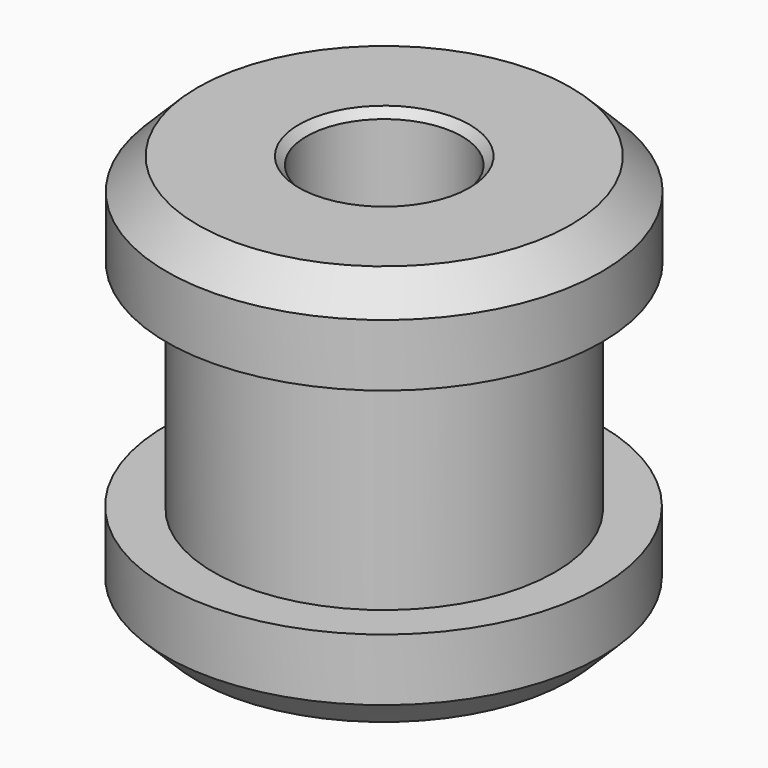
from build123d import *

# Parameters (mm, degrees)
SKETCH_R        = 7
PAD_DEPTH       = 3
SKETCH001_R     = 5.5
PAD001_DEPTH    = 7
SKETCH002_R     = 7
PAD002_DEPTH    = 3
CHAMFER_SIZE    = 1
SKETCH003_R     = 2.5
POCKET_DEPTH    = 13.001
CHAMFER001_SIZE = 0.25


with BuildPart() as part:
    # Sketch → Pad (new body)
    with BuildSketch(Plane.XY):
        with Locations((-0.119005, 0.119001)):
            Circle(SKETCH_R)
    extrude(amount=PAD_DEPTH)

    # Sketch001 → Pad001 (new body)
    with BuildSketch(Plane.XY.offset(3)):
        Circle(SKETCH001_R)
    extrude(amount=PAD001_DEPTH)

    # Sketch002 → Pad002 (new body)
    with BuildSketch(Plane.XY.offset(10)):
        Circle(SKETCH002_R)
    extrude(amount=PAD002_DEPTH)

    # Chamfer
    chamfer_edges = [part.edges().sort_by_distance(p)[0] for p in [
        (-7, 0, 13),
        (-7.119005, 0.119001, 0),
    ]]
    chamfer(chamfer_edges, length=CHAMFER_SIZE)

    # Sketch003 → Pocket (cut, through all)
    with BuildSketch(Plane.XY.offset(13)):
        Circle(SKETCH003_R)
    extrude(amount=-POCKET_DEPTH, mode=Mode.SUBTRACT)

    # Chamfer001
    chamfer001_edges = [part.edges().sort_by_distance(p)[0] for p in [
        (-2.5, 0, 13),
        (-2.5, 0, 0),
    ]]
    chamfer(chamfer001_edges, length=CHAMFER001_SIZE)


solid = part.part
